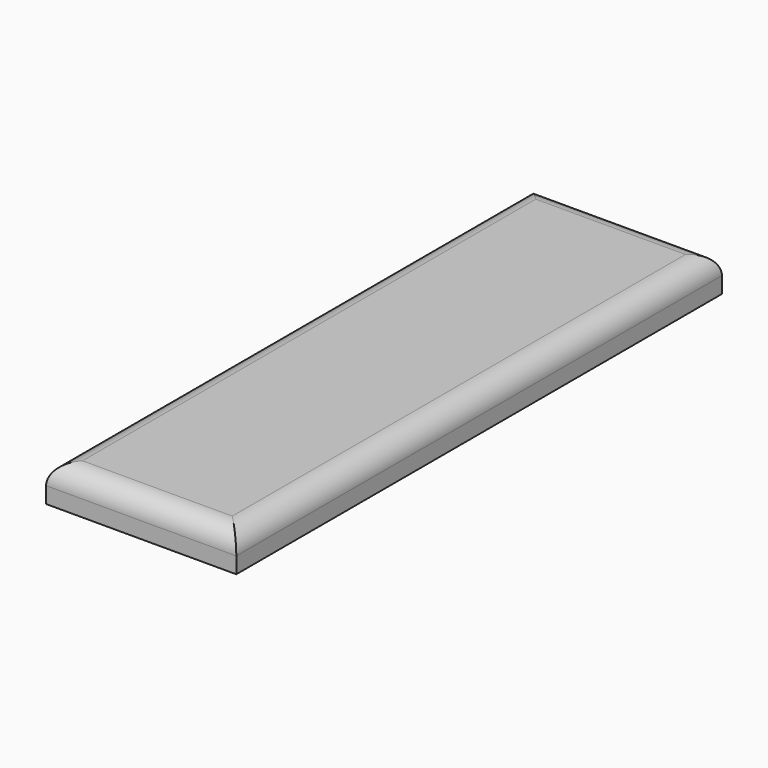
from build123d import *

# Parameters (mm, degrees)
SKETCH_W  = 94
SKETCH_H  = 300
PAD_DEPTH = 18
FILLET_R  = 10


with BuildPart() as part:
    # Sketch → Pad (new body)
    with BuildSketch(Plane.XY):
        with Locations((47, 150)):
            Rectangle(SKETCH_W, SKETCH_H)
    extrude(amount=PAD_DEPTH)

    # Fillet
    fillet_edges = [part.edges().sort_by_distance(p)[0] for p in [
        (47, 300, 18),
        (94, 150, 18),
        (47, 0, 18),
        (0, 150, 18),
    ]]
    fillet(fillet_edges, radius=FILLET_R)


solid = part.part
